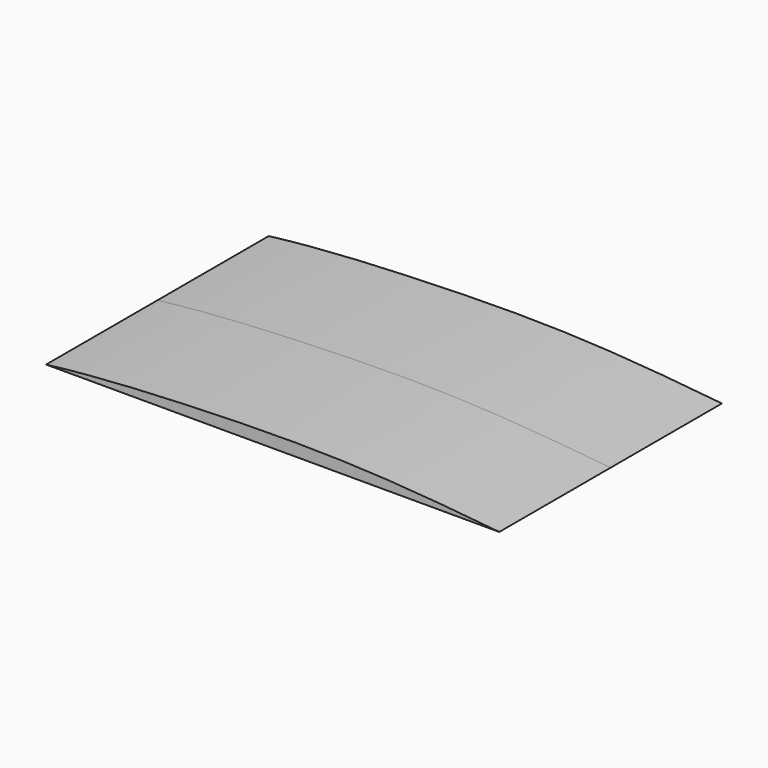
from build123d import *

# Parameters (mm, degrees)
F1_DEPTH = 150


with BuildPart() as f1:
    # F0 (on Front) → F1 (new body, symmetric)
    with BuildSketch(Plane.XZ):
        with BuildLine():
            add(Edge.make_bspline(
                [(488.571614027, 0), (440.3772424076, 4.8939708473), (327.4356287091, 15.5920400856), (150.4201163831, 12.005485564), (47.3694091159, 5.8166382321), (0, 0)],
                knots=[0, 0, 0, 0, 0.3304658504, 0.680551944, 1, 1, 1, 1], degree=3))
            Line((0, 0), (488.571614027, 0))
        make_face()
    extrude(amount=F1_DEPTH, both=True)


solid = f1.part
